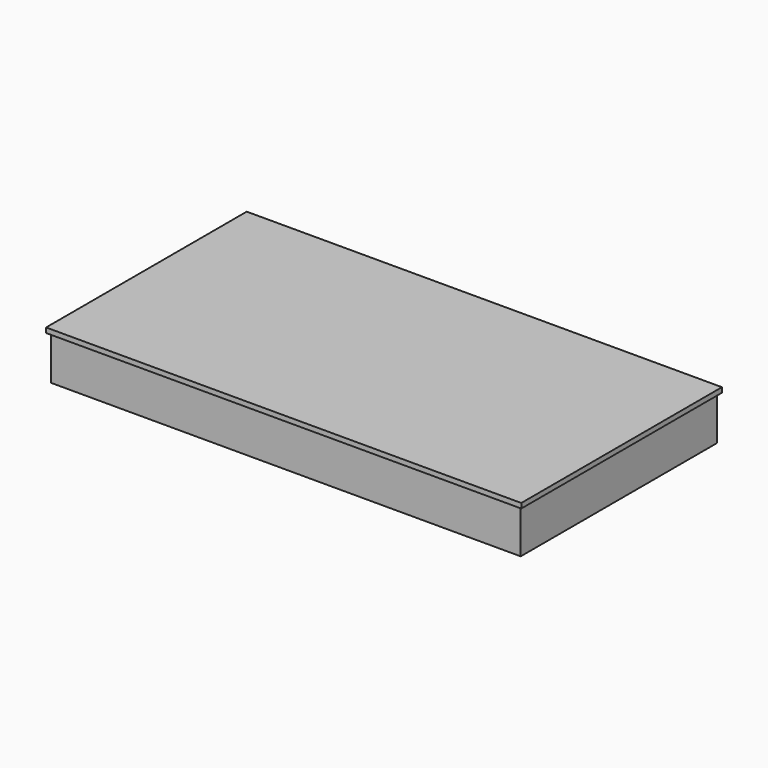
from build123d import *

# Parameters (mm, degrees)
EXTRUDE_DEPTH    = 229.5
CUBE005_W        = 165.5
CUBE005_H        = 56.6
CUBE005_DEPTH    = 22.8
CUBE007_W        = 87.4667
CUBE007_H        = 16
CUBE007_DEPTH    = 22.8
CUBE008_W        = 31.3
CUBE008_H        = 33.2
CUBE008_DEPTH    = 22.8
CUBE009_W        = 44.3333
CUBE009_H        = 16
CUBE009_DEPTH    = 22.8
CUBE010_W        = 82.15
CUBE010_H        = 16
CUBE010_DEPTH    = 22.8
CUBE011_W        = 82.15
CUBE011_H        = 16
CUBE011_DEPTH    = 22.8
CUBE012_W        = 165.5
CUBE012_H        = 8
CUBE012_DEPTH    = 22.8
CUBE006_W        = 133
CUBE006_H        = 16
CUBE006_DEPTH    = 22.8
CUBE013_W        = 165.5
CUBE013_H        = 57.8
CUBE013_DEPTH    = 22.8
CUBE015_W        = 60.4
CUBE015_H        = 27.4
CUBE015_DEPTH    = 22.8
CUBE016_W        = 60.4
CUBE016_H        = 16.4
CUBE016_DEPTH    = 22.8
CUBE014_W        = 60.4
CUBE014_H        = 27.4
CUBE014_DEPTH    = 22.8
CUBE017_W        = 61.6
CUBE017_H        = 73.6
CUBE017_DEPTH    = 22.8
CUBE018_W        = 60.4
CUBE018_H        = 42.6
CUBE018_DEPTH    = 22.8
CUBE002_W        = 17
CUBE002_H        = 1.7
CUBE002_DEPTH    = 22.8
CUBE003_W        = 17
CUBE003_H        = 1.7
CUBE003_DEPTH    = 22.8
CUBE004_W        = 17
CUBE004_H        = 1.7
CUBE004_DEPTH    = 22.8
CUBE001_W        = 165.5
CUBE001_H        = 54.9
CUBE001_DEPTH    = 22.8
CUBE_W           = 229.5
CUBE_H           = 119.8
CUBE_DEPTH       = 22.8
EXTRUDE001_DEPTH = 229.9
CUBE020_W        = 232.3
CUBE020_H        = 1.2
CUBE020_DEPTH    = 1.2
CUBE021_W        = 1.2
CUBE021_H        = 122.6
CUBE021_DEPTH    = 1.2
CUBE022_W        = 232.3
CUBE022_H        = 1.2
CUBE022_DEPTH    = 1.2
CUBE023_W        = 1.2
CUBE023_H        = 122.6
CUBE023_DEPTH    = 1.2
CUBE033_W        = 87.4667
CUBE033_H        = 16
CUBE033_DEPTH    = 22.8
CUBE034_W        = 31.3
CUBE034_H        = 33.2
CUBE034_DEPTH    = 22.8
CUBE035_W        = 44.3333
CUBE035_H        = 16
CUBE035_DEPTH    = 22.8
CUBE036_W        = 82.15
CUBE036_H        = 16
CUBE036_DEPTH    = 22.8
CUBE037_W        = 82.15
CUBE037_H        = 16
CUBE037_DEPTH    = 22.8
CUBE038_W        = 165.5
CUBE038_H        = 8
CUBE038_DEPTH    = 22.8
CUBE032_W        = 133
CUBE032_H        = 16
CUBE032_DEPTH    = 22.8
CUBE040_W        = 60.4
CUBE040_H        = 27.4
CUBE040_DEPTH    = 22.8
CUBE041_W        = 60.4
CUBE041_H        = 16.4
CUBE041_DEPTH    = 22.8
CUBE039_W        = 60.4
CUBE039_H        = 27.4
CUBE039_DEPTH    = 22.8
CUBE042_W        = 60.4
CUBE042_H        = 42.6
CUBE042_DEPTH    = 22.8
CUBE029_W        = 17
CUBE029_H        = 1.7
CUBE029_DEPTH    = 22.8
CUBE030_W        = 17
CUBE030_H        = 1.7
CUBE030_DEPTH    = 22.8
CUBE031_W        = 17
CUBE031_H        = 1.7
CUBE031_DEPTH    = 22.8
CUBE028_W        = 165.5
CUBE028_H        = 54.9
CUBE028_DEPTH    = 22.8
CUBE027_W        = 229.5
CUBE027_H        = 119.8
CUBE027_DEPTH    = 22.8
CUBE025_W        = 165.3
CUBE025_H        = 57.8
CUBE025_DEPTH    = 22.8
CUBE026_W        = 61.6
CUBE026_H        = 73.4
CUBE026_DEPTH    = 22.8
CUBE024_W        = 165.3
CUBE024_H        = 56.4
CUBE024_DEPTH    = 22.8
CUBE019_W        = 232.3
CUBE019_H        = 122.6
CUBE019_DEPTH    = 1.2


with BuildPart() as extrude_body:
    # Sketch (on Face1 of difference) → Extrude (new body)
    with BuildSketch(Plane(origin=(0, 0, 0), x_dir=(0, -1, 0), z_dir=(-1, 0, 0))):
        with BuildLine():
            ThreePointArc((0, 22.3), (0.25, 22.55), (0, 22.8))
            Line((0, 22.8), (0, 22.3))
        make_face()
        with BuildLine():
            ThreePointArc((-119.8, 22.8), (-120.05, 22.55), (-119.8, 22.3))
            Line((-119.8, 22.3), (-119.8, 22.8))
        make_face()
    extrude(amount=-EXTRUDE_DEPTH)


with BuildPart() as cube005:
    # cube005 → cube005 (new body)
    with BuildSketch(Plane(origin=(1.2, 1.2, 11.4), x_dir=(1, 0, 0), z_dir=(0, 0, 1))):
        with Locations((82.75, 28.3)):
            Rectangle(CUBE005_W, CUBE005_H)
    extrude(amount=CUBE005_DEPTH)


with BuildPart() as cube007:
    # cube007 → cube007 (new body)
    with BuildSketch(Plane(origin=(0, 17.2, 0), x_dir=(1, 0, 0), z_dir=(0, 0, 1))):
        with Locations((43.73335, 8)):
            Rectangle(CUBE007_W, CUBE007_H)
    extrude(amount=CUBE007_DEPTH)


with BuildPart() as cube008:
    # cube008 → cube008 (new body)
    with BuildSketch(Plane(origin=(134.2, 0, 0), x_dir=(1, 0, 0), z_dir=(0, 0, 1))):
        with Locations((15.65, 16.6)):
            Rectangle(CUBE008_W, CUBE008_H)
    extrude(amount=CUBE008_DEPTH)


with BuildPart() as cube009:
    # cube009 → cube009 (new body)
    with BuildSketch(Plane(origin=(88.6667, 17.2, 0), x_dir=(1, 0, 0), z_dir=(0, 0, 1))):
        with Locations((22.16665, 8)):
            Rectangle(CUBE009_W, CUBE009_H)
    extrude(amount=CUBE009_DEPTH)


with BuildPart() as cube010:
    # cube010 → cube010 (new body)
    with BuildSketch(Plane(origin=(0, 34.4, 0), x_dir=(1, 0, 0), z_dir=(0, 0, 1))):
        with Locations((41.075, 8)):
            Rectangle(CUBE010_W, CUBE010_H)
    extrude(amount=CUBE010_DEPTH)


with BuildPart() as cube011:
    # cube011 → cube011 (new body)
    with BuildSketch(Plane(origin=(83.35, 34.4, 0), x_dir=(1, 0, 0), z_dir=(0, 0, 1))):
        with Locations((41.075, 8)):
            Rectangle(CUBE011_W, CUBE011_H)
    extrude(amount=CUBE011_DEPTH)


with BuildPart() as cube012:
    # cube012 → cube012 (new body)
    with BuildSketch(Plane(origin=(0, 51.6, 0), x_dir=(1, 0, 0), z_dir=(0, 0, 1))):
        with Locations((82.75, 4)):
            Rectangle(CUBE012_W, CUBE012_H)
    extrude(amount=CUBE012_DEPTH)


with BuildPart() as matrix_union001:
    # cube006 → cube006 (new body)
    with BuildSketch(Plane.XY):
        with Locations((66.5, 8)):
            Rectangle(CUBE006_W, CUBE006_H)
    extrude(amount=CUBE006_DEPTH)

    # Matrix_Union001: union cube007, cube008, cube009, cube010, cube011, cube012
    add(cube007.part)
    add(cube008.part)
    add(cube009.part)
    add(cube010.part)
    add(cube011.part)
    add(cube012.part)


with BuildPart() as matrix_union001_1:
    # Matrix_Union001 placement: moved
    add(matrix_union001.part.moved(Location((1.2, 59, 1.2))))


with BuildPart() as cube013:
    # cube013 → cube013 (new body)
    with BuildSketch(Plane(origin=(1.2, 57.8, 11.4), x_dir=(1, 0, 0), z_dir=(0, 0, 1))):
        with Locations((82.75, 28.9)):
            Rectangle(CUBE013_W, CUBE013_H)
    extrude(amount=CUBE013_DEPTH)


with BuildPart() as cube015:
    # cube015 → cube015 (new body)
    with BuildSketch(Plane(origin=(0, 28.6, 0), x_dir=(1, 0, 0), z_dir=(0, 0, 1))):
        with Locations((30.2, 13.7)):
            Rectangle(CUBE015_W, CUBE015_H)
    extrude(amount=CUBE015_DEPTH)


with BuildPart() as cube016:
    # cube016 → cube016 (new body)
    with BuildSketch(Plane(origin=(0, 57.2, 0), x_dir=(1, 0, 0), z_dir=(0, 0, 1))):
        with Locations((30.2, 8.2)):
            Rectangle(CUBE016_W, CUBE016_H)
    extrude(amount=CUBE016_DEPTH)


with BuildPart() as matrix_union002:
    # cube014 → cube014 (new body)
    with BuildSketch(Plane.XY):
        with Locations((30.2, 13.7)):
            Rectangle(CUBE014_W, CUBE014_H)
    extrude(amount=CUBE014_DEPTH)

    # Matrix_Union002: union cube015, cube016
    add(cube015.part)
    add(cube016.part)


with BuildPart() as matrix_union002_1:
    # Matrix_Union002 placement: moved
    add(matrix_union002.part.moved(Location((167.9, 1.2, 1.2))))


with BuildPart() as cube017:
    # cube017 → cube017 (new body)
    with BuildSketch(Plane(origin=(166.7, 1.2, 11.4), x_dir=(1, 0, 0), z_dir=(0, 0, 1))):
        with Locations((30.8, 36.8)):
            Rectangle(CUBE017_W, CUBE017_H)
    extrude(amount=CUBE017_DEPTH)


with BuildPart() as cube018:
    # cube018 → cube018 (new body)
    with BuildSketch(Plane(origin=(167.9, 76, 1.2), x_dir=(1, 0, 0), z_dir=(0, 0, 1))):
        with Locations((30.2, 21.3)):
            Rectangle(CUBE018_W, CUBE018_H)
    extrude(amount=CUBE018_DEPTH)


with BuildPart() as cube002:
    # cube002 → cube002 (new body)
    with BuildSketch(Plane(origin=(5.1, -1.7, 0), x_dir=(1, 0, 0), z_dir=(0, 0, 1))):
        with Locations((8.5, 0.85)):
            Rectangle(CUBE002_W, CUBE002_H)
    extrude(amount=CUBE002_DEPTH)


with BuildPart() as cube003:
    # cube003 → cube003 (new body)
    with BuildSketch(Plane(origin=(74.25, -1.7, 0), x_dir=(1, 0, 0), z_dir=(0, 0, 1))):
        with Locations((8.5, 0.85)):
            Rectangle(CUBE003_W, CUBE003_H)
    extrude(amount=CUBE003_DEPTH)


with BuildPart() as cube004:
    # cube004 → cube004 (new body)
    with BuildSketch(Plane(origin=(143.4, -1.7, 0), x_dir=(1, 0, 0), z_dir=(0, 0, 1))):
        with Locations((8.5, 0.85)):
            Rectangle(CUBE004_W, CUBE004_H)
    extrude(amount=CUBE004_DEPTH)


with BuildPart() as union:
    # cube001 → cube001 (new body)
    with BuildSketch(Plane.XY):
        with Locations((82.75, 27.45)):
            Rectangle(CUBE001_W, CUBE001_H)
    extrude(amount=CUBE001_DEPTH)

    # Matrix_Union: union cube002, cube003, cube004
    add(cube002.part)
    add(cube003.part)
    add(cube004.part)


with BuildPart() as union_1:
    # Matrix_Union placement: moved
    add(union.part.moved(Location((1.2, 2.9, 1.2))))

    # union: union cube005, Matrix_Union001, cube013, Matrix_Union002, cube017, cube018
    add(cube005.part)
    add(matrix_union001_1.part)
    add(cube013.part)
    add(matrix_union002_1.part)
    add(cube017.part)
    add(cube018.part)


with BuildPart() as fusion:
    # cube → cube (new body)
    with BuildSketch(Plane.XY):
        with Locations((114.75, 59.9)):
            Rectangle(CUBE_W, CUBE_H)
    extrude(amount=CUBE_DEPTH)

    # difference: cut union
    add(union_1.part, mode=Mode.SUBTRACT)

    # Fusion: union Extrude body
    add(extrude_body.part)


with BuildPart() as extrude001:
    # Sketch001 (on Face26 of Group) → Extrude001 (new body)
    with BuildSketch(Plane.YZ.offset(-0.2)):
        with BuildLine():
            ThreePointArc((120, 22.1), (119.75, 21.85), (120, 21.6))
            Line((120, 22.1), (120, 21.6))
        make_face()
        with BuildLine():
            ThreePointArc((-0.2, 21.6), (0.05, 21.85), (-0.2, 22.1))
            Line((-0.2, 22.1), (-0.2, 21.6))
        make_face()
    extrude(amount=EXTRUDE001_DEPTH)


with BuildPart() as cube020:
    # cube020 → cube020 (new body)
    with BuildSketch(Plane(origin=(-1.4, -1.4, 21.6), x_dir=(1, 0, 0), z_dir=(0, 0, 1))):
        with Locations((116.15, 0.6)):
            Rectangle(CUBE020_W, CUBE020_H)
    extrude(amount=CUBE020_DEPTH)


with BuildPart() as cube021:
    # cube021 → cube021 (new body)
    with BuildSketch(Plane(origin=(-1.4, -1.4, 21.6), x_dir=(1, 0, 0), z_dir=(0, 0, 1))):
        with Locations((0.6, 61.3)):
            Rectangle(CUBE021_W, CUBE021_H)
    extrude(amount=CUBE021_DEPTH)


with BuildPart() as cube022:
    # cube022 → cube022 (new body)
    with BuildSketch(Plane(origin=(-1.4, 120, 21.6), x_dir=(1, 0, 0), z_dir=(0, 0, 1))):
        with Locations((116.15, 0.6)):
            Rectangle(CUBE022_W, CUBE022_H)
    extrude(amount=CUBE022_DEPTH)


with BuildPart() as cube023:
    # cube023 → cube023 (new body)
    with BuildSketch(Plane(origin=(229.7, -1.4, 21.6), x_dir=(1, 0, 0), z_dir=(0, 0, 1))):
        with Locations((0.6, 61.3)):
            Rectangle(CUBE023_W, CUBE023_H)
    extrude(amount=CUBE023_DEPTH)


with BuildPart() as cube033:
    # cube033 → cube033 (new body)
    with BuildSketch(Plane(origin=(0, 17.2, 0), x_dir=(1, 0, 0), z_dir=(0, 0, 1))):
        with Locations((43.73335, 8)):
            Rectangle(CUBE033_W, CUBE033_H)
    extrude(amount=CUBE033_DEPTH)


with BuildPart() as cube034:
    # cube034 → cube034 (new body)
    with BuildSketch(Plane(origin=(134.2, 0, 0), x_dir=(1, 0, 0), z_dir=(0, 0, 1))):
        with Locations((15.65, 16.6)):
            Rectangle(CUBE034_W, CUBE034_H)
    extrude(amount=CUBE034_DEPTH)


with BuildPart() as cube035:
    # cube035 → cube035 (new body)
    with BuildSketch(Plane(origin=(88.6667, 17.2, 0), x_dir=(1, 0, 0), z_dir=(0, 0, 1))):
        with Locations((22.16665, 8)):
            Rectangle(CUBE035_W, CUBE035_H)
    extrude(amount=CUBE035_DEPTH)


with BuildPart() as cube036:
    # cube036 → cube036 (new body)
    with BuildSketch(Plane(origin=(0, 34.4, 0), x_dir=(1, 0, 0), z_dir=(0, 0, 1))):
        with Locations((41.075, 8)):
            Rectangle(CUBE036_W, CUBE036_H)
    extrude(amount=CUBE036_DEPTH)


with BuildPart() as cube037:
    # cube037 → cube037 (new body)
    with BuildSketch(Plane(origin=(83.35, 34.4, 0), x_dir=(1, 0, 0), z_dir=(0, 0, 1))):
        with Locations((41.075, 8)):
            Rectangle(CUBE037_W, CUBE037_H)
    extrude(amount=CUBE037_DEPTH)


with BuildPart() as cube038:
    # cube038 → cube038 (new body)
    with BuildSketch(Plane(origin=(0, 51.6, 0), x_dir=(1, 0, 0), z_dir=(0, 0, 1))):
        with Locations((82.75, 4)):
            Rectangle(CUBE038_W, CUBE038_H)
    extrude(amount=CUBE038_DEPTH)


with BuildPart() as matrix_union004:
    # cube032 → cube032 (new body)
    with BuildSketch(Plane.XY):
        with Locations((66.5, 8)):
            Rectangle(CUBE032_W, CUBE032_H)
    extrude(amount=CUBE032_DEPTH)

    # Matrix_Union004: union cube033, cube034, cube035, cube036, cube037, cube038
    add(cube033.part)
    add(cube034.part)
    add(cube035.part)
    add(cube036.part)
    add(cube037.part)
    add(cube038.part)


with BuildPart() as matrix_union004_1:
    # Matrix_Union004 placement: moved
    add(matrix_union004.part.moved(Location((1.2, 59, 1.2))))


with BuildPart() as cube040:
    # cube040 → cube040 (new body)
    with BuildSketch(Plane(origin=(0, 28.6, 0), x_dir=(1, 0, 0), z_dir=(0, 0, 1))):
        with Locations((30.2, 13.7)):
            Rectangle(CUBE040_W, CUBE040_H)
    extrude(amount=CUBE040_DEPTH)


with BuildPart() as cube041:
    # cube041 → cube041 (new body)
    with BuildSketch(Plane(origin=(0, 57.2, 0), x_dir=(1, 0, 0), z_dir=(0, 0, 1))):
        with Locations((30.2, 8.2)):
            Rectangle(CUBE041_W, CUBE041_H)
    extrude(amount=CUBE041_DEPTH)


with BuildPart() as matrix_union005:
    # cube039 → cube039 (new body)
    with BuildSketch(Plane.XY):
        with Locations((30.2, 13.7)):
            Rectangle(CUBE039_W, CUBE039_H)
    extrude(amount=CUBE039_DEPTH)

    # Matrix_Union005: union cube040, cube041
    add(cube040.part)
    add(cube041.part)


with BuildPart() as matrix_union005_1:
    # Matrix_Union005 placement: moved
    add(matrix_union005.part.moved(Location((167.9, 1.2, 1.2))))


with BuildPart() as cube042:
    # cube042 → cube042 (new body)
    with BuildSketch(Plane(origin=(167.9, 76, 1.2), x_dir=(1, 0, 0), z_dir=(0, 0, 1))):
        with Locations((30.2, 21.3)):
            Rectangle(CUBE042_W, CUBE042_H)
    extrude(amount=CUBE042_DEPTH)


with BuildPart() as cube029:
    # cube029 → cube029 (new body)
    with BuildSketch(Plane(origin=(5.1, -1.7, 0), x_dir=(1, 0, 0), z_dir=(0, 0, 1))):
        with Locations((8.5, 0.85)):
            Rectangle(CUBE029_W, CUBE029_H)
    extrude(amount=CUBE029_DEPTH)


with BuildPart() as cube030:
    # cube030 → cube030 (new body)
    with BuildSketch(Plane(origin=(74.25, -1.7, 0), x_dir=(1, 0, 0), z_dir=(0, 0, 1))):
        with Locations((8.5, 0.85)):
            Rectangle(CUBE030_W, CUBE030_H)
    extrude(amount=CUBE030_DEPTH)


with BuildPart() as cube031:
    # cube031 → cube031 (new body)
    with BuildSketch(Plane(origin=(143.4, -1.7, 0), x_dir=(1, 0, 0), z_dir=(0, 0, 1))):
        with Locations((8.5, 0.85)):
            Rectangle(CUBE031_W, CUBE031_H)
    extrude(amount=CUBE031_DEPTH)


with BuildPart() as union002:
    # cube028 → cube028 (new body)
    with BuildSketch(Plane.XY):
        with Locations((82.75, 27.45)):
            Rectangle(CUBE028_W, CUBE028_H)
    extrude(amount=CUBE028_DEPTH)

    # Matrix_Union003: union cube029, cube030, cube031
    add(cube029.part)
    add(cube030.part)
    add(cube031.part)


with BuildPart() as union002_1:
    # Matrix_Union003 placement: moved
    add(union002.part.moved(Location((1.2, 2.9, 1.2))))

    # union002: union Matrix_Union004, Matrix_Union005, cube042
    add(matrix_union004_1.part)
    add(matrix_union005_1.part)
    add(cube042.part)


with BuildPart() as difference001:
    # cube027 → cube027 (new body)
    with BuildSketch(Plane.XY):
        with Locations((114.75, 59.9)):
            Rectangle(CUBE027_W, CUBE027_H)
    extrude(amount=CUBE027_DEPTH)

    # difference001: cut union002
    add(union002_1.part, mode=Mode.SUBTRACT)


with BuildPart() as cube025:
    # cube025 → cube025 (new body)
    with BuildSketch(Plane(origin=(1.4, 57.8, 11.4), x_dir=(1, 0, 0), z_dir=(0, 0, 1))):
        with Locations((82.65, 28.9)):
            Rectangle(CUBE025_W, CUBE025_H)
    extrude(amount=CUBE025_DEPTH)


with BuildPart() as cube026:
    # cube026 → cube026 (new body)
    with BuildSketch(Plane(origin=(166.7, 1.4, 11.4), x_dir=(1, 0, 0), z_dir=(0, 0, 1))):
        with Locations((30.8, 36.7)):
            Rectangle(CUBE026_W, CUBE026_H)
    extrude(amount=CUBE026_DEPTH)


with BuildPart() as intersection:
    # cube024 → cube024 (new body)
    with BuildSketch(Plane(origin=(1.4, 1.4, 11.4), x_dir=(1, 0, 0), z_dir=(0, 0, 1))):
        with Locations((82.65, 28.2)):
            Rectangle(CUBE024_W, CUBE024_H)
    extrude(amount=CUBE024_DEPTH)

    # union001: union cube025, cube026
    add(cube025.part)
    add(cube026.part)

    # intersection: intersect difference001
    add(difference001.part, mode=Mode.INTERSECT)


with BuildPart() as fusion001:
    # cube019 → cube019 (new body)
    with BuildSketch(Plane(origin=(-1.4, -1.4, 22.8), x_dir=(1, 0, 0), z_dir=(0, 0, 1))):
        with Locations((116.15, 61.3)):
            Rectangle(CUBE019_W, CUBE019_H)
    extrude(amount=CUBE019_DEPTH)

    # Group: union cube020, cube021, cube022, cube023, intersection
    add(cube020.part)
    add(cube021.part)
    add(cube022.part)
    add(cube023.part)
    add(intersection.part)

    # Fusion001: union Extrude001
    add(extrude001.part)


solid = Compound([fusion.part, fusion001.part])
